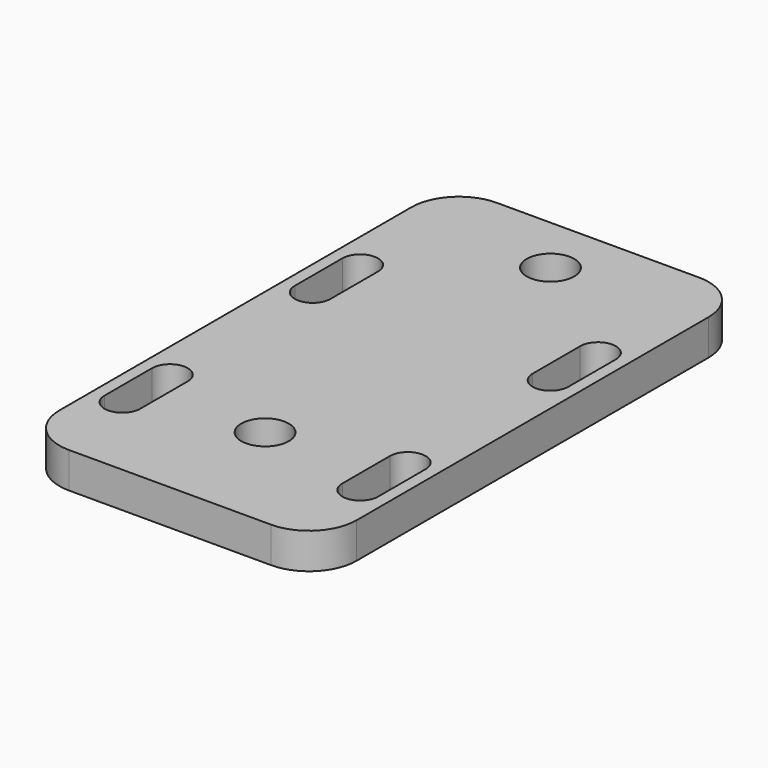
from build123d import *

# Parameters (mm, degrees)
F1_DEPTH = 3
F2_R     = 2
F3_DEPTH = 3


with BuildPart() as f1:
    # F0 (on Top) → F1 (new body)
    with BuildSketch(Plane.XY):
        with BuildLine():
            Line((-8.5, -22.5), (8.5, -22.5))
            ThreePointArc((8.5, -22.5), (11.328427, -21.328427), (12.5, -18.5))
            Line((12.5, -18.5), (12.5, 18.5))
            ThreePointArc((12.5, 18.5), (11.328427, 21.328427), (8.5, 22.5))
            Line((8.5, 22.5), (-8.5, 22.5))
            ThreePointArc((-8.5, 22.5), (-11.328427, 21.328427), (-12.5, 18.5))
            Line((-12.5, 18.5), (-12.5, -18.5))
            ThreePointArc((-12.5, -18.5), (-11.328427, -21.328427), (-8.5, -22.5))
        make_face()
    extrude(amount=F1_DEPTH)

    # F2 (on face) → F3 (cut, through all)
    with BuildSketch(Plane.XY.offset(3)):
        with Locations((0, -12.5)):
            Circle(F2_R)
        with Locations((0, 17.5)):
            Circle(F2_R)
        with BuildLine():
            ThreePointArc((-8.5, 10), (-10, 11.5), (-11.5, 10))
            Line((-11.5, 10), (-11.5, 5))
            ThreePointArc((-11.5, 5), (-10, 3.5), (-8.5, 5))
            Line((-8.5, 5), (-8.5, 10))
        make_face()
        with BuildLine():
            ThreePointArc((11.5, 10), (10, 11.5), (8.5, 10))
            Line((8.5, 10), (8.5, 5))
            ThreePointArc((8.5, 5), (10, 3.5), (11.5, 5))
            Line((11.5, 5), (11.5, 10))
        make_face()
        with BuildLine():
            ThreePointArc((11.5, -10), (10, -8.5), (8.5, -10))
            Line((8.5, -10), (8.5, -15))
            ThreePointArc((8.5, -15), (10, -16.5), (11.5, -15))
            Line((11.5, -15), (11.5, -10))
        make_face()
        with BuildLine():
            ThreePointArc((-8.5, -10), (-10, -8.5), (-11.5, -10))
            Line((-11.5, -10), (-11.5, -15))
            ThreePointArc((-11.5, -15), (-10, -16.5), (-8.5, -15))
            Line((-8.5, -15), (-8.5, -10))
        make_face()
    extrude(amount=-F3_DEPTH, mode=Mode.SUBTRACT)


solid = f1.part
